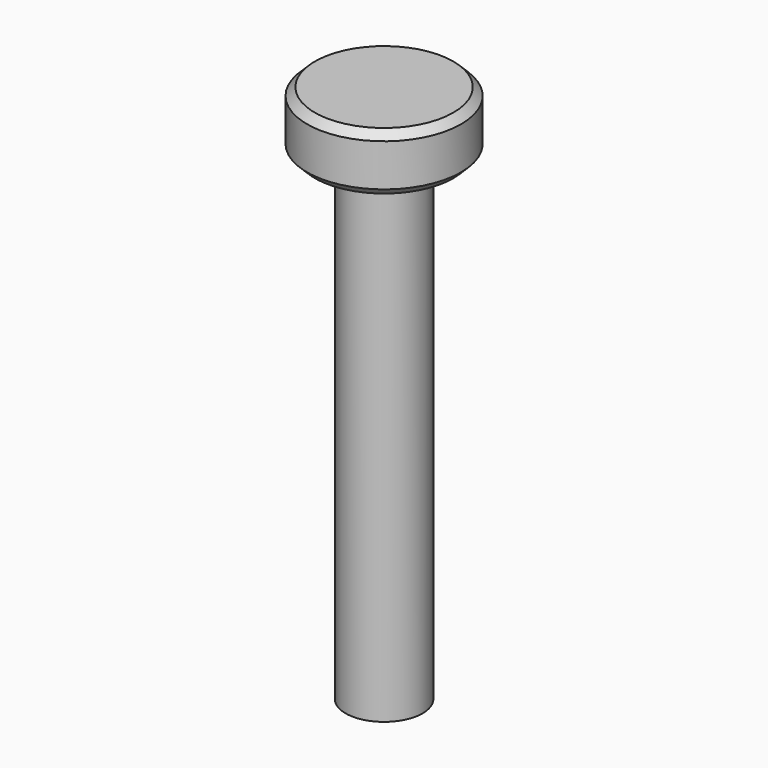
from build123d import *

# Parameters (mm, degrees)
F0_R     = 2
F1_DEPTH = 25
F2_R     = 4
F2_R_2   = 2
F3_DEPTH = 3
F4_SIZE  = 0.4


with BuildPart() as f1:
    # F0 (on Top) → F1 (new body)
    with BuildSketch(Plane.XY):
        Circle(F0_R)
    extrude(amount=F1_DEPTH)

    # F2 (on face) → F3 (join)
    with BuildSketch(Plane.XY.offset(25)):
        Circle(F2_R)
        Circle(F2_R_2, mode=Mode.SUBTRACT)
        Circle(F2_R_2)
    extrude(amount=F3_DEPTH)

    # F4
    f4_edges = [f1.edges().sort_by_distance(p)[0] for p in [
        (-4, 0, 28),
        (-4, 0, 25),
    ]]
    chamfer(f4_edges, length=F4_SIZE)


solid = f1.part
